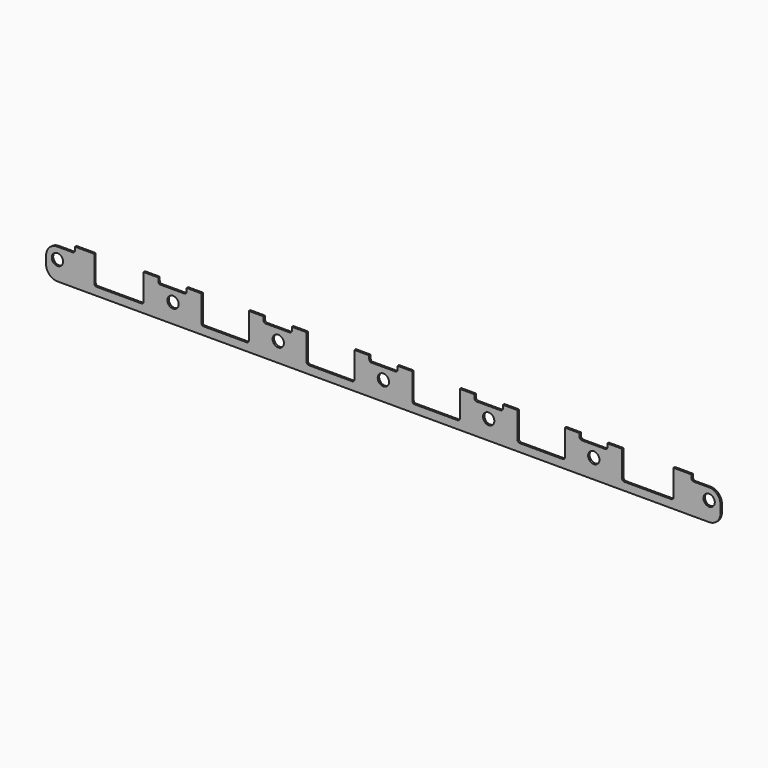
from build123d import *

# Parameters (mm, degrees)
F0_R     = 5
F1_DEPTH = 1.6


with BuildPart() as f1:
    # F0 (on Front) → F1 (new body)
    with BuildSketch(Plane.XZ):
        with BuildLine():
            ThreePointArc((-10, -7), (-7.071068, -14.071068), (0, -17))
            Line((0, -17), (575, -17))
            ThreePointArc((575, -17), (582.071068, -14.071068), (585, -7))
            Line((585, -7), (585, 0))
            ThreePointArc((585, 0), (582.071068, 7.071068), (575, 10))
            Line((575, 10), (561.5, 10))
            ThreePointArc((561.5, 10), (560.085786, 10.585786), (559.5, 12))
            Line((559.5, 12), (559.5, 15))
            Line((559.5, 15), (543.5, 15))
            Line((543.5, 15), (543.5, -8))
            ThreePointArc((543.5, -8), (542.914214, -9.414214), (541.5, -10))
            Line((541.5, -10), (500.25, -10))
            ThreePointArc((500.25, -10), (498.835786, -9.414214), (498.25, -8))
            Line((498.25, -8), (498.25, 15))
            Line((498.25, 15), (485.25, 15))
            Line((485.25, 15), (485.25, 12))
            ThreePointArc((485.25, 12), (484.664214, 10.585786), (483.25, 10))
            Line((483.25, 10), (462.75, 10))
            ThreePointArc((462.75, 10), (461.335786, 10.585786), (460.75, 12))
            Line((460.75, 12), (460.75, 15))
            Line((460.75, 15), (447.75, 15))
            Line((447.75, 15), (447.75, -8))
            ThreePointArc((447.75, -8), (447.164214, -9.414214), (445.75, -10))
            Line((445.75, -10), (408, -10))
            ThreePointArc((408, -10), (406.585786, -9.414214), (406, -8))
            Line((406, -8), (406, 15))
            Line((406, 15), (393, 15))
            Line((393, 15), (393, 12))
            ThreePointArc((393, 12), (392.414214, 10.585786), (391, 10))
            Line((391, 10), (370, 10))
            ThreePointArc((370, 10), (368.585786, 10.585786), (368, 12))
            Line((368, 12), (368, 15))
            Line((368, 15), (355, 15))
            Line((355, 15), (355, -8))
            ThreePointArc((355, -8), (354.414214, -9.414214), (353, -10))
            Line((353, -10), (315.1, -10))
            ThreePointArc((315.1, -10), (313.685786, -9.414214), (313.1, -8))
            Line((313.1, -8), (313.1, 15))
            Line((313.1, 15), (300.1, 15))
            Line((300.1, 15), (300.1, 12))
            ThreePointArc((300.1, 12), (299.514214, 10.585786), (298.1, 10))
            Line((298.1, 10), (277.1, 10))
            ThreePointArc((277.1, 10), (275.685786, 10.585786), (275.1, 12))
            Line((275.1, 12), (275.1, 15))
            Line((275.1, 15), (262.1, 15))
            Line((262.1, 15), (262.1, -8))
            ThreePointArc((262.1, -8), (261.514214, -9.414214), (260.1, -10))
            Line((260.1, -10), (221.85, -10))
            ThreePointArc((221.85, -10), (220.435786, -9.414214), (219.85, -8))
            Line((219.85, -8), (219.85, 15))
            Line((219.85, 15), (206.85, 15))
            Line((206.85, 15), (206.85, 12))
            ThreePointArc((206.85, 12), (206.264214, 10.585786), (204.85, 10))
            Line((204.85, 10), (183.85, 10))
            ThreePointArc((183.85, 10), (182.435786, 10.585786), (181.85, 12))
            Line((181.85, 12), (181.85, 15))
            Line((181.85, 15), (168.85, 15))
            Line((168.85, 15), (168.85, -8))
            ThreePointArc((168.85, -8), (168.264214, -9.414214), (166.85, -10))
            Line((166.85, -10), (129, -10))
            ThreePointArc((129, -10), (127.585786, -9.414214), (127, -8))
            Line((127, -8), (127, 15))
            Line((127, 15), (114, 15))
            Line((114, 15), (114, 12))
            ThreePointArc((114, 12), (113.414214, 10.585786), (112, 10))
            Line((112, 10), (91, 10))
            ThreePointArc((91, 10), (89.585786, 10.585786), (89, 12))
            Line((89, 12), (89, 15))
            Line((89, 15), (76, 15))
            Line((76, 15), (76, -8))
            ThreePointArc((76, -8), (75.414214, -9.414214), (74, -10))
            Line((74, -10), (34.5, -10))
            ThreePointArc((34.5, -10), (33.085786, -9.414214), (32.5, -8))
            Line((32.5, -8), (32.5, 15))
            Line((32.5, 15), (15.5, 15))
            Line((15.5, 15), (15.5, 12))
            ThreePointArc((15.5, 12), (14.914214, 10.585786), (13.5, 10))
            Line((13.5, 10), (0, 10))
            ThreePointArc((0, 10), (-7.071068, 7.071068), (-10, 0))
            Line((-10, 0), (-10, -7))
        make_face()
        Circle(F0_R, mode=Mode.SUBTRACT)
        with Locations((102, 0)):
            Circle(F0_R, mode=Mode.SUBTRACT)
        with Locations((194.85, 0)):
            Circle(F0_R, mode=Mode.SUBTRACT)
        with Locations((287.6, 0)):
            Circle(F0_R, mode=Mode.SUBTRACT)
        with Locations((380.5, 0)):
            Circle(F0_R, mode=Mode.SUBTRACT)
        with Locations((473.25, 0)):
            Circle(F0_R, mode=Mode.SUBTRACT)
        with Locations((575, 0)):
            Circle(F0_R, mode=Mode.SUBTRACT)
    extrude(amount=F1_DEPTH)


solid = f1.part
